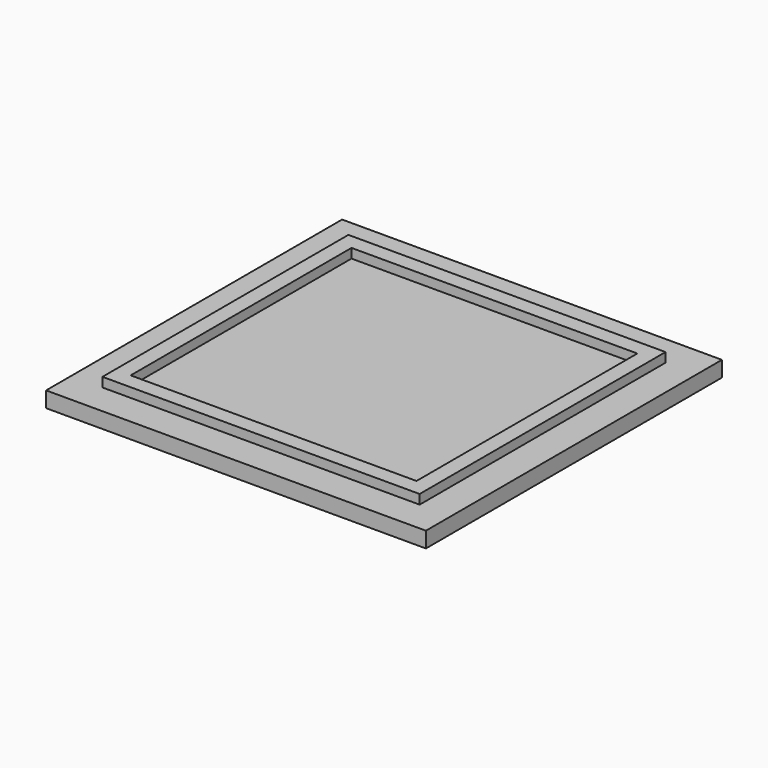
from build123d import *

# Parameters (mm, degrees)
F0_W     = 48.5
F0_H     = 47.25
F0_W_2   = 40.5
F0_H_2   = 39.25
F0_W_3   = 36.5
F0_H_3   = 35.25
F1_DEPTH = 2
F2_DEPTH = 3.2


with BuildPart() as f1:
    # F0 (on Top) → F1 (new body)
    with BuildSketch(Plane.XY):
        Rectangle(F0_W, F0_H)
        Rectangle(F0_W_2, F0_H_2, mode=Mode.SUBTRACT)
        Rectangle(F0_W_2, F0_H_2)
        Rectangle(F0_W_3, F0_H_3, mode=Mode.SUBTRACT)
        Rectangle(F0_W_3, F0_H_3)
    extrude(amount=F1_DEPTH)

    # F0 (on Top) → F2 (join)
    with BuildSketch(Plane.XY):
        Rectangle(F0_W_2, F0_H_2)
        Rectangle(F0_W_3, F0_H_3, mode=Mode.SUBTRACT)
    extrude(amount=F2_DEPTH)


solid = f1.part
